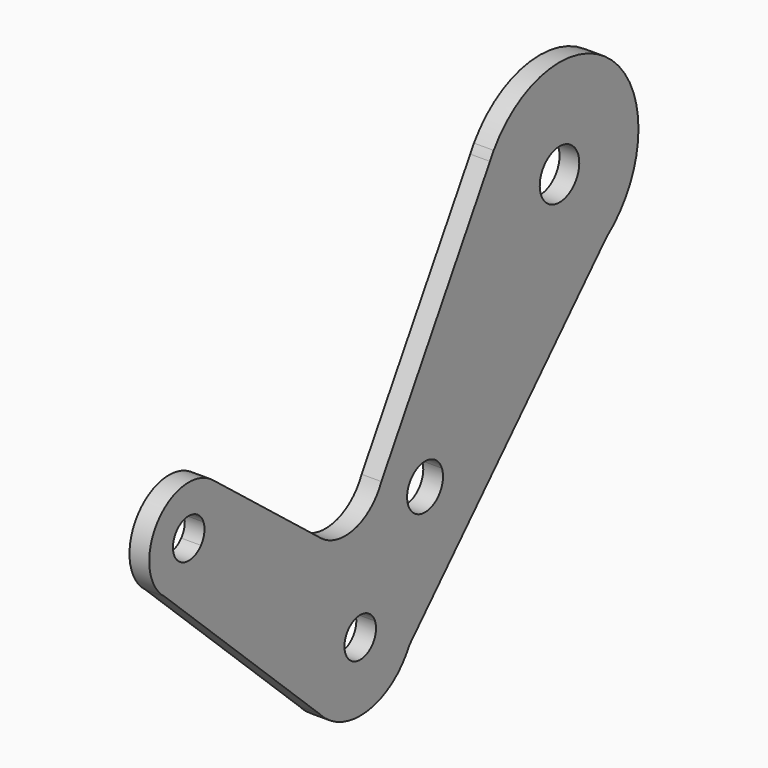
from build123d import *

# Parameters (mm, degrees)
F1_DEPTH = 3.175
F2_ANGLE = 20


with BuildPart() as f1:
    # F0 (on Right) → F1 (new body)
    with BuildSketch(Plane.YZ):
        with BuildLine():
            ThreePointArc((-46.3333823875, 42.4595372576), (-43.5036193129, 45.3559116673), (-42.4707661614, 49.2712351721))
            ThreePointArc((-42.4707661614, 49.2712351721), (-42.7573917524, 51.3850059796), (-43.5965682469, 53.3461189461))
            ThreePointArc((-43.5965682469, 53.3461189461), (-54.6135390245, 56.0032175248), (-57.0580373704, 44.937132137))
            ThreePointArc((-57.0580373704, 44.937132137), (-52.1949195756, 41.5374278414), (-46.3333823875, 42.4595372576))
        make_face()
        with BuildLine():
            ThreePointArc((-47.2332661614, 49.2712351721), (-47.646407422, 47.7051057702), (-48.7783126519, 46.5465560063))
            ThreePointArc((-48.7783126519, 46.5465560063), (-53.1701249009, 50.837364574), (-47.2332661614, 49.2712351721))
        make_face(mode=Mode.SUBTRACT)
        with BuildLine():
            ThreePointArc((-43.5965682469, 53.3461189461), (-42.7573917524, 51.3850059796), (-42.4707661614, 49.2712351721))
            ThreePointArc((-42.4707661614, 49.2712351721), (-43.5036193129, 45.3559116673), (-46.3333823875, 42.4595372576))
            Line((-46.3333823875, 42.4595372576), (-33.2937543108, 20.6621039311))
            ThreePointArc((-33.2937543108, 20.6621039311), (-24.8796092545, 21.902892881), (-18.0525399469, 16.8305641344))
            Line((-18.0525399469, 16.8305641344), (-12.9674956029, 19.8725317828))
            ThreePointArc((-12.9674956029, 19.8725317828), (-11.7220164271, 24.8268363473), (-6.7677118626, 23.5813571715))
            Line((-6.7677118626, 23.5813571715), (13.2812704599, 35.5750294946))
            ThreePointArc((13.2812704599, 35.5750294946), (11.2120730663, 46.124410126), (16.339289948, 55.5733601527))
            Line((16.339289948, 55.5733601527), (-16.6492197631, 28.7846981113))
            ThreePointArc((-16.6492197631, 28.7846981113), (-23.2154318135, 26.3763647233), (-29.1435252875, 30.0875529647))
            Line((-29.1435252875, 30.0875529647), (-43.5965682469, 53.3461189461))
        make_face()
        with BuildLine():
            Line((-33.2937543108, 20.6621039311), (-46.3333823875, 42.4595372576))
            ThreePointArc((-46.3333823875, 42.4595372576), (-52.1949195756, 41.5374278414), (-57.0580373704, 44.937132137))
            Line((-57.0580373704, 44.937132137), (-37.8446703025, 6.8470376817))
            ThreePointArc((-37.8446703025, 6.8470376817), (-38.1434954942, 14.6025831369), (-33.2937543108, 20.6621039311))
        make_face()
        with BuildLine():
            Line((-29.2188705368, 13.8504060166), (-33.2937543108, 20.6621039311))
            ThreePointArc((-33.2937543108, 20.6621039311), (-38.1434954942, 14.6025831369), (-37.8446703025, 6.8470376817))
            Line((-37.8446703025, 6.8470376817), (-37.1252941075, 5.4208895672))
            ThreePointArc((-37.1252941075, 5.4208895672), (-29.1995102722, 0.1305622022), (-20.089390193, 2.9254370075))
            ThreePointArc((-20.089390193, 2.9254370075), (-17.4196951249, 6.645260117), (-16.4764170272, 11.1257268508))
            ThreePointArc((-16.4764170272, 11.1257268508), (-16.8776928545, 14.0850059813), (-18.0525399469, 16.8305641344))
            Line((-18.0525399469, 16.8305641344), (-24.8642378614, 12.7556803604))
            ThreePointArc((-24.8642378614, 12.7556803604), (-24.5285672636, 11.9712351738), (-24.4139170272, 11.1257268508))
            ThreePointArc((-24.4139170272, 11.1257268508), (-29.1550464291, 8.3638681114), (-29.2188705368, 13.8504060166))
        make_face()
        with BuildLine():
            Line((-37.1252941075, 5.4208895672), (-37.8446703025, 6.8470376817))
            ThreePointArc((-37.8446703025, 6.8470376817), (-37.5106396909, 6.1210215013), (-37.1252941075, 5.4208895672))
        make_face()
        with BuildLine():
            Line((-12.9674956029, 19.8725317828), (-18.0525399469, 16.8305641344))
            ThreePointArc((-18.0525399469, 16.8305641344), (-16.8776928545, 14.0850059813), (-16.4764170272, 11.1257268508))
            ThreePointArc((-16.4764170272, 11.1257268508), (-17.4196951249, 6.645260117), (-20.089390193, 2.9254370075))
            Line((-20.089390193, 2.9254370075), (31.386066434, 28.4954609527))
            ThreePointArc((31.386066434, 28.4954609527), (21.1233088396, 28.9399557839), (13.2812704599, 35.5750294946))
            Line((13.2812704599, 35.5750294946), (-6.7677118626, 23.5813571715))
            ThreePointArc((-6.7677118626, 23.5813571715), (-6.3858164196, 22.6888868627), (-6.2553778197, 21.7269444772))
            ThreePointArc((-6.2553778197, 21.7269444772), (-8.9056613472, 18.245157164), (-12.9674956029, 19.8725317828))
        make_face()
        with BuildLine():
            Line((17.4765728718, 56.4969025666), (16.339289948, 55.5733601527))
            ThreePointArc((16.339289948, 55.5733601527), (11.2120730663, 46.124410126), (13.2812704599, 35.5750294946))
            ThreePointArc((13.2812704599, 35.5750294946), (21.1233088396, 28.9399557839), (31.386066434, 28.4954609527))
            Line((31.386066434, 28.4954609527), (36.3327597061, 30.9526915185))
            ThreePointArc((36.3327597061, 30.9526915185), (41.0765858483, 36.5713139049), (42.7796662889, 43.7247970426))
            ThreePointArc((42.7796662889, 43.7247970426), (34.0581494266, 57.896716602), (17.4765728718, 56.4969025666))
        make_face()
        with BuildLine():
            ThreePointArc((30.8797662889, 43.7247970426), (27.9632427093, 39.8932391385), (23.4933679733, 41.6840952486))
            ThreePointArc((23.4933679733, 41.6840952486), (25.8460898685, 47.5563549466), (30.8797662889, 43.7247970426))
        make_face(mode=Mode.SUBTRACT)
        with BuildLine():
            ThreePointArc((17.4765728718, 56.4969025666), (16.8972719782, 56.0482577623), (16.339289948, 55.5733601527))
            Line((16.339289948, 55.5733601527), (17.4765728718, 56.4969025666))
        make_face()
        with BuildLine():
            Line((36.3327597061, 30.9526915185), (31.386066434, 28.4954609527))
            ThreePointArc((31.386066434, 28.4954609527), (33.9671020092, 29.5072857731), (36.3327597061, 30.9526915185))
        make_face()
        with BuildLine():
            ThreePointArc((-18.0525399469, 16.8305641344), (-24.8796092545, 21.902892881), (-33.2937543108, 20.6621039311))
            Line((-33.2937543108, 20.6621039311), (-29.2188705368, 13.8504060166))
            ThreePointArc((-29.2188705368, 13.8504060166), (-26.8148290921, 14.2049171452), (-24.8642378614, 12.7556803604))
            Line((-24.8642378614, 12.7556803604), (-18.0525399469, 16.8305641344))
        make_face()
    extrude(amount=F1_DEPTH)


with BuildPart() as f1_1:
    # F2: moved
    add(f1.part.rotate(Axis((0, 26.9046662889, 43.7247970426), (1, 0, 0)), F2_ANGLE))


solid = f1_1.part
